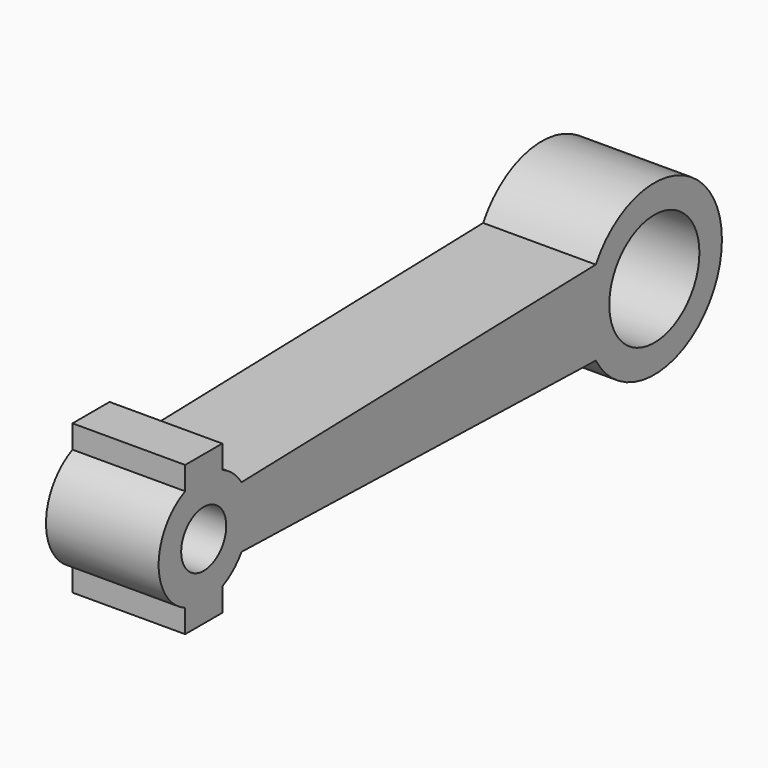
from build123d import *

# Parameters (mm, degrees)
F0_R     = 10
F1_DEPTH = 20


with BuildPart() as f1:
    # F0 (on Right) → F1 (new body)
    with BuildSketch(Plane.YZ):
        with BuildLine():
            Line((0, 13.228757), (0, 5))
            ThreePointArc((0, 5), (5, 0), (0, -5))
            Line((0, -5), (0, -13.228757))
            Line((0, -13.228757), (4.114378, -13.228757))
            Line((4.114378, -13.228757), (4.114378, -9.114378))
            ThreePointArc((4.114378, -9.114378), (6.516361, -7.585317), (8.390026, -5.441274))
            Line((8.390026, -5.441274), (87.009619, -7.5))
            ThreePointArc((87.009619, -7.5), (115, 0), (87.009619, 7.5))
            Line((87.009619, 7.5), (8.390026, 5.441274))
            ThreePointArc((8.390026, 5.441274), (6.516361, 7.585317), (4.114378, 9.114378))
            Line((4.114378, 9.114378), (4.114378, 13.228757))
            Line((4.114378, 13.228757), (0, 13.228757))
        make_face()
        with Locations((100, 0)):
            Circle(F0_R, mode=Mode.SUBTRACT)
        with BuildLine():
            ThreePointArc((0, -5), (-5, 0), (0, 5))
            Line((0, 5), (0, 13.228757))
            Line((0, 13.228757), (-4.114378, 13.228757))
            Line((-4.114378, 13.228757), (-4.114378, 9.114378))
            ThreePointArc((-4.114378, 9.114378), (-10, 0), (-4.114378, -9.114378))
            Line((-4.114378, -9.114378), (-4.114378, -13.228757))
            Line((-4.114378, -13.228757), (0, -13.228757))
            Line((0, -13.228757), (0, -5))
        make_face()
    extrude(amount=F1_DEPTH)


solid = f1.part
